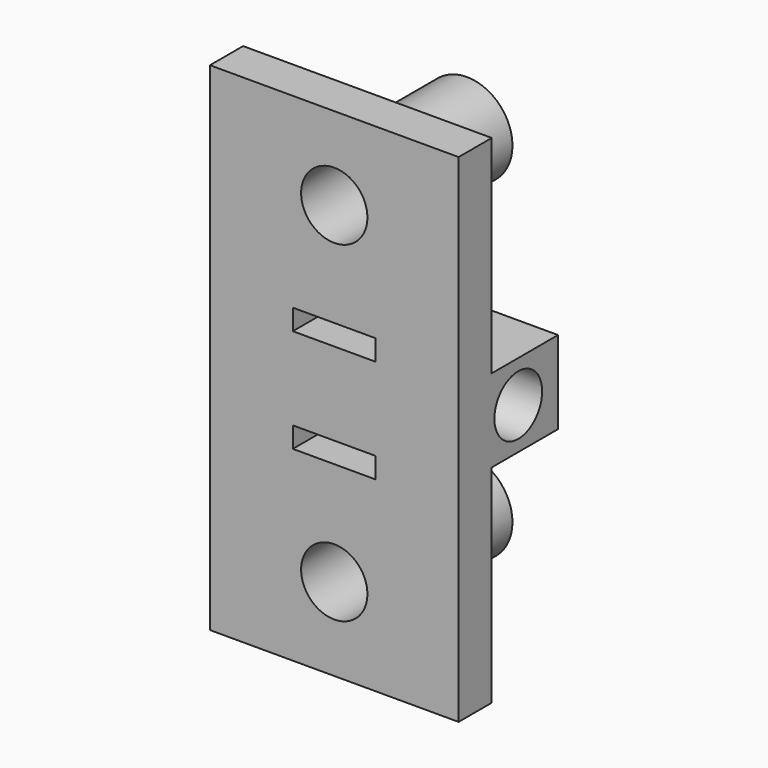
from build123d import *

# Parameters (mm, degrees)
F0_W     = 30
F0_H     = 60
F0_R     = 5.5
F0_W_2   = 10
F0_H_2   = 2.5
F0_R_2   = 4
F1_DEPTH = 5
F2_DEPTH = 15
F3_W     = 10
F3_H     = 10
F3_R     = 3.6
F4_DEPTH = 15
F5_DEPTH = 25
F6_DEPTH = 10


with BuildPart() as f1:
    # F0 (on Front) → F1 (new body)
    with BuildSketch(Plane.XZ):
        Rectangle(F0_W, F0_H)
        with Locations((0, -20)):
            Circle(F0_R, mode=Mode.SUBTRACT)
        with Locations((0, -6.25)):
            Rectangle(F0_W_2, F0_H_2, mode=Mode.SUBTRACT)
        with Locations((0, 6.25)):
            Rectangle(F0_W_2, F0_H_2, mode=Mode.SUBTRACT)
        with Locations((0, 20)):
            Circle(F0_R, mode=Mode.SUBTRACT)
        with Locations((0, 20)):
            Circle(F0_R)
        with Locations((0, 20)):
            Circle(F0_R_2, mode=Mode.SUBTRACT)
        with Locations((0, -20)):
            Circle(F0_R)
        with Locations((0, -20)):
            Circle(F0_R_2, mode=Mode.SUBTRACT)
    extrude(amount=F1_DEPTH)

    # F0 (on Front) → F2 (join)
    with BuildSketch(Plane.XZ):
        with Locations((0, 20)):
            Circle(F0_R)
        with Locations((0, 20)):
            Circle(F0_R_2, mode=Mode.SUBTRACT)
        with Locations((0, -20)):
            Circle(F0_R)
        with Locations((0, -20)):
            Circle(F0_R_2, mode=Mode.SUBTRACT)
        with Locations((0, 20)):
            Circle(F0_R_2)
        with Locations((0, -20)):
            Circle(F0_R_2)
    extrude(amount=-F2_DEPTH)

    # F3 (on Right) → F4 (join, symmetric)
    with BuildSketch(Plane.YZ):
        with Locations((5, 0)):
            Rectangle(F3_W, F3_H)
        with Locations((4, 0)):
            Circle(F3_R, mode=Mode.SUBTRACT)
        with Locations((4, 0)):
            Circle(F3_R)
    extrude(amount=F4_DEPTH, both=True)

    # F3 (on Right) → F5 (cut, symmetric)
    with BuildSketch(Plane.YZ):
        with Locations((4, 0)):
            Circle(F3_R)
    extrude(amount=F5_DEPTH, both=True, mode=Mode.SUBTRACT)

    # F0 (on Front) → F6 (cut, symmetric)
    with BuildSketch(Plane.XZ):
        with Locations((0, 20)):
            Circle(F0_R_2)
        with Locations((0, -20)):
            Circle(F0_R_2)
    extrude(amount=F6_DEPTH, both=True, mode=Mode.SUBTRACT)


solid = f1.part
